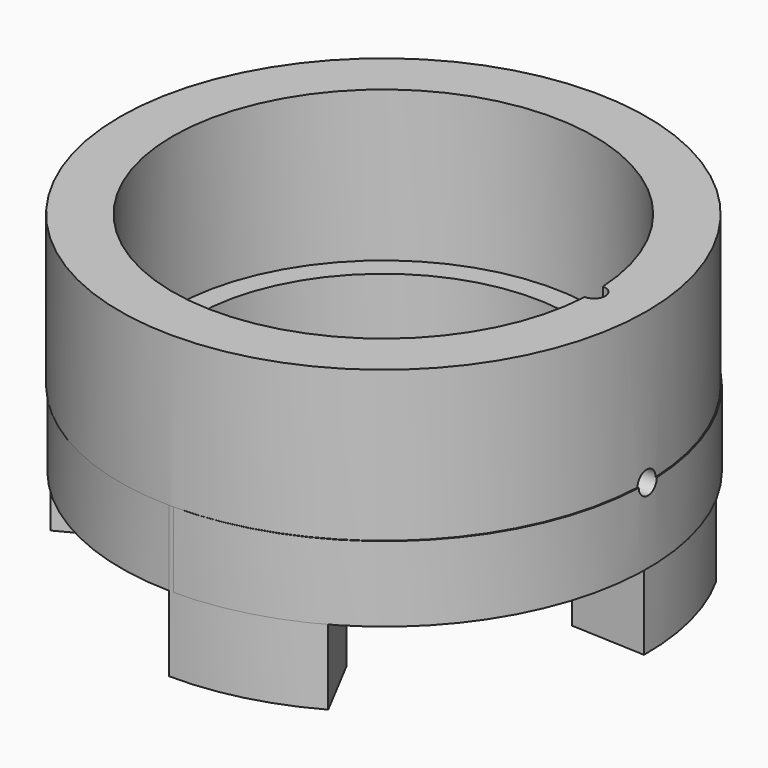
from build123d import *

# Parameters (mm, degrees)
SKETCH003_R          = 35
SKETCH003_R_2        = 28
PAD001_DEPTH         = 20
SKETCH004_R          = 35
SKETCH004_R_2        = 25
PAD002_DEPTH         = 10
PAD003_DEPTH         = 20
POLARPATTERN_COUNT   = 4
SKETCH006_R          = 1.5
POCKET002_DEPTH      = 8.5
SKETCH007_R          = 1.5
POCKET003_DEPTH      = 1
POCKET003_DEPTH_BACK = 20


with BuildPart() as part:
    # Sketch003 → Pad001 (new body)
    with BuildSketch(Plane.XY):
        Circle(SKETCH003_R)
        Circle(SKETCH003_R_2, mode=Mode.SUBTRACT)
    extrude(amount=PAD001_DEPTH)

    # Sketch004 → Pad002 (new body)
    with BuildSketch(Plane.XY):
        with Locations((0.164112, 4e-06)):
            Circle(SKETCH004_R)
        Circle(SKETCH004_R_2, mode=Mode.SUBTRACT)
    extrude(amount=-PAD002_DEPTH)

    # Sketch005 → Pad003 (new body)
    with BuildSketch(Plane.XY):
        with BuildLine():
            ThreePointArc((-34.997022, 0.456563), (-33.922695, -8.61689), (-30.536592, -17.103116))
            Line((-30.536592, -17.103116), (-21.762611, -12.504957))
            ThreePointArc((-25.093421, 0), (-24.251171, -6.471733), (-21.762611, -12.504957))
            Line((-34.997022, 0.456563), (-25.093421, 0))
        make_face()
    pad003 = extrude(amount=-PAD003_DEPTH)

    # PolarPattern: Pad003 ×4 about axis
    polarpattern_axis = Axis((0, 0, 0), (0, 0, 1))
    for i in range(1, POLARPATTERN_COUNT):
        add(pad003.rotate(polarpattern_axis, i * 360 / POLARPATTERN_COUNT))

    # Sketch006 → Pocket002 (cut, symmetric)
    with BuildSketch(Plane(origin=(35, 0, 0), x_dir=(0, 0.939693, 0.34202), z_dir=(1, 0, 0))):
        Circle(SKETCH006_R)
    extrude(amount=POCKET002_DEPTH, both=True, mode=Mode.SUBTRACT)

    # Sketch007 → Pocket003 (cut, two sides)
    with BuildSketch(Plane(origin=(28, 0, 0), x_dir=(1, 0, 0), z_dir=(0, 0, 1))) as pocket003_sk:
        Circle(SKETCH007_R)
    extrude(amount=-POCKET003_DEPTH, mode=Mode.SUBTRACT)
    extrude(pocket003_sk.sketch, amount=POCKET003_DEPTH_BACK, mode=Mode.SUBTRACT)


solid = part.part
